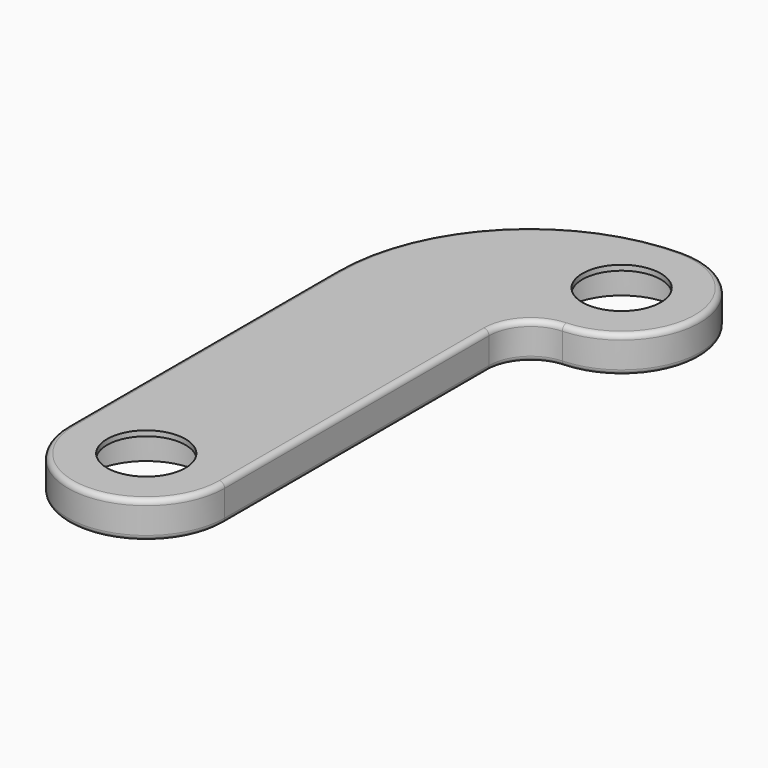
from build123d import *

# Parameters (mm, degrees)
PAD_DEPTH        = 7
HOLE_D           = 15
HOLE_CBORE_D     = 22
HOLE_CBORE_DEPTH = 6
FILLET_R         = 1


with BuildPart() as part:
    # Sketch002 → Pad (new body)
    with BuildSketch(Plane.XY):
        with BuildLine():
            ThreePointArc((0.652174, 71.252227), (14.996453, 86.564207), (0, 101.238043))
            ThreePointArc((0, 101.238043), (-26.162951, 90.400994), (-37, 64.238043))
            Line((-37, 64.238043), (-37, 0))
            ThreePointArc((-37, 0), (-22, -15), (-7, 0))
            Line((-7, 0), (-7, 63.259792))
            ThreePointArc((0.652174, 71.252227), (-4.778521, 68.792305), (-7, 63.259792))
        make_face()
    extrude(amount=PAD_DEPTH)

    # Hole (through all)
    with Locations(Plane(origin=(0, 0, 0), x_dir=(1, 0, 0), z_dir=(0, 0, -1))):
        with Locations((0, -86.238043), (-22, 0)):
            CounterBoreHole(HOLE_D / 2, HOLE_CBORE_D / 2, HOLE_CBORE_DEPTH)

    # Fillet
    fillet_edges = [part.edges().sort_by_distance(p)[0] for p in [
        (-37, 32.119021, 0),
        (-37, 32.119021, 7),
    ]]
    fillet(fillet_edges, radius=FILLET_R)


solid = part.part
